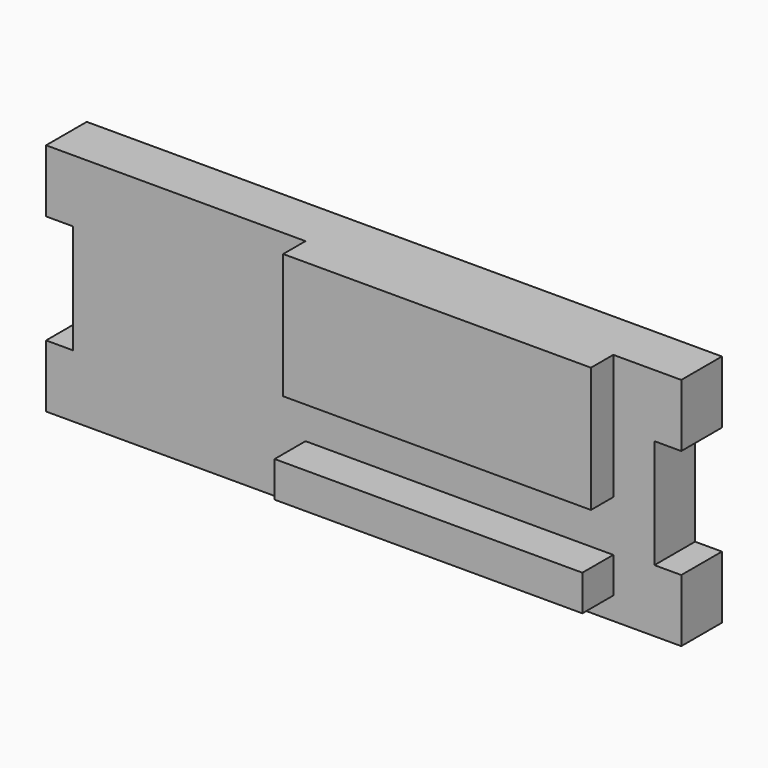
from build123d import *

# Parameters (mm, degrees)
F3_DEPTH = 1.42
F1_W     = 8.6
F1_H     = 1
F4_DEPTH = 2.5
F2_W     = 8.6
F2_H     = 3.5
F5_DEPTH = 2.2


with BuildPart() as f3:
    # F0 (on Front) → F3 (new body)
    with BuildSketch(Plane.XZ):
        Polygon((3.628443, 25.740858), (-14.121557, 25.740858), (-14.121557, 23.990858), (-13.371557, 23.990858), (-13.371557, 20.940858), (-14.121557, 20.940858), (-14.121557, 19.190858), (3.628443, 19.190858), (3.628443, 20.940858), (2.878443, 20.940858), (2.878443, 23.990858), (3.628443, 23.990858), align=None)
    extrude(amount=F3_DEPTH)

    # F1 (on face) → F4 (join)
    with BuildSketch(Plane.XZ):
        with Locations((-2.571557, 20.319503)):
            Rectangle(F1_W, F1_H)
    extrude(amount=F4_DEPTH)

    # F2 (on face) → F5 (join)
    with BuildSketch(Plane.XZ):
        with Locations((-2.571557, 23.990858)):
            Rectangle(F2_W, F2_H)
    extrude(amount=F5_DEPTH)


solid = f3.part
